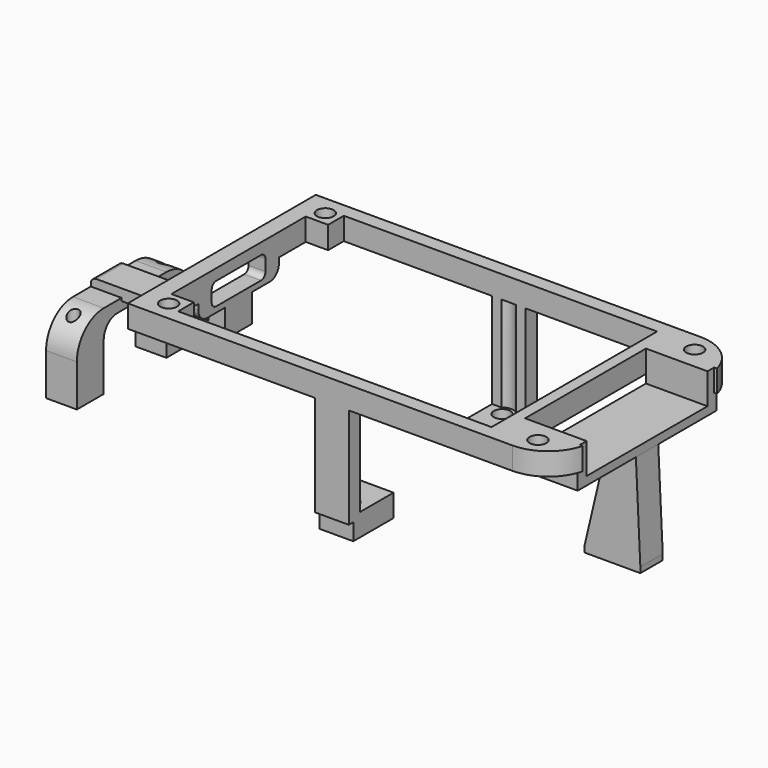
from build123d import *

# Parameters (mm, degrees)
BOX148_W               = 10
BOX148_H               = 12
BOX148_DEPTH           = 4
FILLET092_R            = 1
CYLINDER225_R          = 1
CYLINDER225_DEPTH      = 17
BOX132_W               = 10
BOX132_H               = 5
BOX132_DEPTH           = 18
CHAMFER021_1_SIZE2     = 4
CHAMFER021_1_SIZE      = 17
CHAMFER021_2_SIZE2     = 0.8
CHAMFER021_2_SIZE      = 17
BOX116_W               = 56
BOX116_H               = 37
BOX116_DEPTH           = 6
BOX130_W               = 60
BOX130_H               = 30
BOX130_DEPTH           = 6
CYLINDER224_R          = 1.5
CYLINDER224_DEPTH      = 12
BOX131_W               = 12
BOX131_H               = 30
BOX131_DEPTH           = 6
CYLINDER222_R          = 1.5
CYLINDER222_DEPTH      = 12
CYLINDER221_R          = 1.5
CYLINDER221_DEPTH      = 12
CYLINDER223_R          = 1.5
CYLINDER223_DEPTH      = 12
BOX134_W               = 25
BOX134_H               = 45
BOX134_DEPTH           = 6
BOX097_W               = 100
BOX097_H               = 42
BOX097_DEPTH           = 4
FILLET082_R            = 8
CYLINDER226_R          = 1.5
CYLINDER226_DEPTH      = 21
BOX138_W               = 8
BOX138_H               = 10
BOX138_DEPTH           = 21
BOX137_W               = 8
BOX137_H               = 10
BOX137_DEPTH           = 21
CYLINDER228_R          = 2
CYLINDER228_DEPTH      = 21
BOX110_W               = 56
BOX110_H               = 1
BOX110_DEPTH           = 3
BOX136_W               = 6
BOX136_H               = 10
BOX136_DEPTH           = 21
CYLINDER227_R          = 1.5
CYLINDER227_DEPTH      = 21
BOX141_W               = 8
BOX141_H               = 10
BOX141_DEPTH           = 21
BOX140_W               = 8
BOX140_H               = 10
BOX140_DEPTH           = 21
CYLINDER229_R          = 2
CYLINDER229_DEPTH      = 21
BOX139_W               = 56
BOX139_H               = 1
BOX139_DEPTH           = 3
BOX142_W               = 6
BOX142_H               = 10
BOX142_DEPTH           = 21
CUT100_PLACEMENT_ANGLE = 180
BOX143_W               = 14
BOX143_H               = 27
BOX143_DEPTH           = 8
BOX144_W               = 11
BOX144_H               = 31
BOX144_DEPTH           = 7
CYLINDER233_R          = 1
CYLINDER233_DEPTH      = 19
CYLINDER232_R          = 1
CYLINDER232_DEPTH      = 19
BOX152_W               = 8.5
BOX152_H               = 14
BOX152_DEPTH           = 11.5
FILLET095_R            = 3
BOX151_W               = 5.5
BOX151_H               = 26
BOX151_DEPTH           = 13.5
FILLET093_R            = 6
BOX150_W               = 24
BOX150_H               = 6
BOX150_DEPTH           = 2
BOX147_W               = 3
BOX147_H               = 18
BOX147_DEPTH           = 4
FILLET090_R            = 2
BOX149_W               = 3
BOX149_H               = 6
BOX149_DEPTH           = 6
FILLET094_R            = 1


with BuildPart() as fillet092:
    # Box148 → Box148 (new body)
    with BuildSketch(Plane(origin=(-51, -6, 12), x_dir=(1, 0, 0), z_dir=(0, 0, 1))):
        with Locations((5, 6)):
            Rectangle(BOX148_W, BOX148_H)
    extrude(amount=BOX148_DEPTH)

    # Fillet092
    fillet092_edges = [fillet092.edges().sort_by_distance(p)[0] for p in [
        (-46, -6, 12),
        (-46, -6, 16),
        (-46, 6, 12),
        (-46, 6, 16),
    ]]
    fillet(fillet092_edges, radius=FILLET092_R)


with BuildPart() as zylinder225:
    # Cylinder225 → Cylinder225 (new body)
    with BuildSketch(Plane(origin=(28.75, 0, -10), x_dir=(1, 0, 0), z_dir=(0, 0, 1))):
        Circle(CYLINDER225_R)
    extrude(amount=CYLINDER225_DEPTH)


with BuildPart() as cut098:
    # Box132 → Box132 (new body)
    with BuildSketch(Plane(origin=(21.8, -2.5, -7), x_dir=(1, 0, 0), z_dir=(0, 0, 1))):
        with Locations((5, 2.5)):
            Rectangle(BOX132_W, BOX132_H)
    extrude(amount=BOX132_DEPTH)

    # Chamfer021 1
    chamfer021_1_edges = [cut098.edges().sort_by_distance(p)[0] for p in [
        (21.8, 0, 11),
    ]]
    chamfer021_1_side = cut098.faces().sort_by_distance((21.8, 0, 2))[0]
    chamfer(chamfer021_1_edges, length=CHAMFER021_1_SIZE, length2=CHAMFER021_1_SIZE2, reference=chamfer021_1_side)

    # Chamfer021 2
    chamfer021_2_edges = [cut098.edges().sort_by_distance(p)[0] for p in [
        (31.8, 0, 11),
    ]]
    chamfer021_2_side = cut098.faces().sort_by_distance((31.8, 0, 2))[0]
    chamfer(chamfer021_2_edges, length=CHAMFER021_2_SIZE, length2=CHAMFER021_2_SIZE2, reference=chamfer021_2_side)

    # Cut098: cut Zylinder225
    add(zylinder225.part, mode=Mode.SUBTRACT)


with BuildPart() as obj1:
    # Box116 → Box116 (new body)
    with BuildSketch(Plane(origin=(-38, -18.5, 13), x_dir=(1, 0, 0), z_dir=(0, 0, 1))):
        with Locations((28, 18.5)):
            Rectangle(BOX116_W, BOX116_H)
    extrude(amount=BOX116_DEPTH)


with BuildPart() as obj2:
    # Box130 → Box130 (new body)
    with BuildSketch(Plane(origin=(-42, -15, 13), x_dir=(1, 0, 0), z_dir=(0, 0, 1))):
        with Locations((30, 15)):
            Rectangle(BOX130_W, BOX130_H)
    extrude(amount=BOX130_DEPTH)


with BuildPart() as zylinder224:
    # Cylinder224 → Cylinder224 (new body)
    with BuildSketch(Plane(origin=(25.5, 17.5, 8), x_dir=(1, 0, 0), z_dir=(0, 0, 1))):
        Circle(CYLINDER224_R)
    extrude(amount=CYLINDER224_DEPTH)


with BuildPart() as obj3:
    # Box131 → Box131 (new body)
    with BuildSketch(Plane(origin=(20, -15, 13), x_dir=(1, 0, 0), z_dir=(0, 0, 1))):
        with Locations((6, 15)):
            Rectangle(BOX131_W, BOX131_H)
    extrude(amount=BOX131_DEPTH)


with BuildPart() as zylinder222:
    # Cylinder222 → Cylinder222 (new body)
    with BuildSketch(Plane(origin=(-40.5, -17.5, 8), x_dir=(1, 0, 0), z_dir=(0, 0, 1))):
        Circle(CYLINDER222_R)
    extrude(amount=CYLINDER222_DEPTH)


with BuildPart() as zylinder221:
    # Cylinder221 → Cylinder221 (new body)
    with BuildSketch(Plane(origin=(-40.5, 17.5, 8), x_dir=(1, 0, 0), z_dir=(0, 0, 1))):
        Circle(CYLINDER221_R)
    extrude(amount=CYLINDER221_DEPTH)


with BuildPart() as zylinder223:
    # Cylinder223 → Cylinder223 (new body)
    with BuildSketch(Plane(origin=(25.5, -17.5, 8), x_dir=(1, 0, 0), z_dir=(0, 0, 1))):
        Circle(CYLINDER223_R)
    extrude(amount=CYLINDER223_DEPTH)


with BuildPart() as fusion142:
    # Box134 → Box134 (new body)
    with BuildSketch(Plane(origin=(-70, -22.5, 13), x_dir=(1, 0, 0), z_dir=(0, 0, 1))):
        with Locations((12.5, 22.5)):
            Rectangle(BOX134_W, BOX134_H)
    extrude(amount=BOX134_DEPTH)

    # Fusion142: union obj1, obj2, Zylinder224, obj3, Zylinder222, Zylinder221, Zylinder223
    add(obj1.part)
    add(obj2.part)
    add(zylinder224.part)
    add(obj3.part)
    add(zylinder222.part)
    add(zylinder221.part)
    add(zylinder223.part)


with BuildPart() as cut097:
    # Box097 → Box097 (new body)
    with BuildSketch(Plane(origin=(-68.25, -21, 14), x_dir=(1, 0, 0), z_dir=(0, 0, 1))):
        with Locations((50, 21)):
            Rectangle(BOX097_W, BOX097_H)
    extrude(amount=BOX097_DEPTH)

    # Fillet082
    fillet082_edges = [cut097.edges().sort_by_distance(p)[0] for p in [
        (-68.25, -21, 16),
        (-68.25, 21, 16),
        (31.75, -21, 16),
        (31.75, 21, 16),
    ]]
    fillet(fillet082_edges, radius=FILLET082_R)

    # Cut097: cut Fusion142
    add(fusion142.part, mode=Mode.SUBTRACT)


with BuildPart() as zylinder226:
    # Cylinder226 → Cylinder226 (new body)
    with BuildSketch(Plane(origin=(-8.5, 17, -10), x_dir=(1, 0, 0), z_dir=(0, 0, 1))):
        Circle(CYLINDER226_R)
    extrude(amount=CYLINDER226_DEPTH)


with BuildPart() as obj4:
    # Box138 → Box138 (new body)
    with BuildSketch(Plane(origin=(-12.5, 8.5, -3), x_dir=(1, 0, 0), z_dir=(0, 0, 1))):
        with Locations((4, 5)):
            Rectangle(BOX138_W, BOX138_H)
    extrude(amount=BOX138_DEPTH)


with BuildPart() as obj5:
    # Box137 → Box137 (new body)
    with BuildSketch(Plane(origin=(-12.5, 5.5, -3), x_dir=(1, 0, 0), z_dir=(0, 0, 1))):
        with Locations((4, 5)):
            Rectangle(BOX137_W, BOX137_H)
    extrude(amount=BOX137_DEPTH)


with BuildPart() as zylinder228:
    # Cylinder228 → Cylinder228 (new body)
    with BuildSketch(Plane(origin=(-8.5, 17, -3), x_dir=(1, 0, 0), z_dir=(0, 0, 1))):
        Circle(CYLINDER228_R)
    extrude(amount=CYLINDER228_DEPTH)


with BuildPart() as fusion144:
    # Box110 → Box110 (new body)
    with BuildSketch(Plane(origin=(-43.5, 20, -7), x_dir=(1, 0, 0), z_dir=(0, 0, 1))):
        with Locations((28, 0.5)):
            Rectangle(BOX110_W, BOX110_H)
    extrude(amount=BOX110_DEPTH)

    # Fusion144: union Zylinder226, obj4, obj5, Zylinder228
    add(zylinder226.part)
    add(obj4.part)
    add(obj5.part)
    add(zylinder228.part)


with BuildPart() as cut099:
    # Box136 → Box136 (new body)
    with BuildSketch(Plane(origin=(-11.5, 11, -7), x_dir=(1, 0, 0), z_dir=(0, 0, 1))):
        with Locations((3, 5)):
            Rectangle(BOX136_W, BOX136_H)
    extrude(amount=BOX136_DEPTH)

    # Cut099: cut Fusion144
    add(fusion144.part, mode=Mode.SUBTRACT)


with BuildPart() as zylinder227:
    # Cylinder227 → Cylinder227 (new body)
    with BuildSketch(Plane(origin=(-8.5, 17, -10), x_dir=(1, 0, 0), z_dir=(0, 0, 1))):
        Circle(CYLINDER227_R)
    extrude(amount=CYLINDER227_DEPTH)


with BuildPart() as obj6:
    # Box141 → Box141 (new body)
    with BuildSketch(Plane(origin=(-12.5, 8.5, -3), x_dir=(1, 0, 0), z_dir=(0, 0, 1))):
        with Locations((4, 5)):
            Rectangle(BOX141_W, BOX141_H)
    extrude(amount=BOX141_DEPTH)


with BuildPart() as obj7:
    # Box140 → Box140 (new body)
    with BuildSketch(Plane(origin=(-12.5, 5.5, -3), x_dir=(1, 0, 0), z_dir=(0, 0, 1))):
        with Locations((4, 5)):
            Rectangle(BOX140_W, BOX140_H)
    extrude(amount=BOX140_DEPTH)


with BuildPart() as zylinder229:
    # Cylinder229 → Cylinder229 (new body)
    with BuildSketch(Plane(origin=(-8.5, 17, -3), x_dir=(1, 0, 0), z_dir=(0, 0, 1))):
        Circle(CYLINDER229_R)
    extrude(amount=CYLINDER229_DEPTH)


with BuildPart() as fusion145:
    # Box139 → Box139 (new body)
    with BuildSketch(Plane(origin=(-43.5, 20, -7), x_dir=(1, 0, 0), z_dir=(0, 0, 1))):
        with Locations((28, 0.5)):
            Rectangle(BOX139_W, BOX139_H)
    extrude(amount=BOX139_DEPTH)

    # Fusion145: union Zylinder227, obj6, obj7, Zylinder229
    add(zylinder227.part)
    add(obj6.part)
    add(obj7.part)
    add(zylinder229.part)


with BuildPart() as cut100:
    # Box142 → Box142 (new body)
    with BuildSketch(Plane(origin=(-11.5, 11, -7), x_dir=(1, 0, 0), z_dir=(0, 0, 1))):
        with Locations((3, 5)):
            Rectangle(BOX142_W, BOX142_H)
    extrude(amount=BOX142_DEPTH)

    # Cut100: cut Fusion145
    add(fusion145.part, mode=Mode.SUBTRACT)


with BuildPart() as cut100_1:
    # Cut100 placement: moved
    add(cut100.part.moved(Location((-17, 0, 0))).rotate(Axis((-17, 0, 0), (0, 0, 1)), CUT100_PLACEMENT_ANGLE))


with BuildPart() as obj8:
    # Box143 → Box143 (new body)
    with BuildSketch(Plane(origin=(19, -13.5, 12.5), x_dir=(1, 0, 0), z_dir=(0, 0, 1))):
        with Locations((7, 13.5)):
            Rectangle(BOX143_W, BOX143_H)
    extrude(amount=BOX143_DEPTH)


with BuildPart() as cut101:
    # Box144 → Box144 (new body)
    with BuildSketch(Plane(origin=(20, -15.5, 11), x_dir=(1, 0, 0), z_dir=(0, 0, 1))):
        with Locations((5.5, 15.5)):
            Rectangle(BOX144_W, BOX144_H)
    extrude(amount=BOX144_DEPTH)

    # Cut101: cut obj8
    add(obj8.part, mode=Mode.SUBTRACT)


with BuildPart() as zylinder233:
    # Cylinder233 → Cylinder233 (new body)
    with BuildSketch(Plane(origin=(-63.5, 10, -10), x_dir=(1, 0, 0), z_dir=(0, 0, 1))):
        Circle(CYLINDER233_R)
    extrude(amount=CYLINDER233_DEPTH)


with BuildPart() as zylinder232:
    # Cylinder232 → Cylinder232 (new body)
    with BuildSketch(Plane(origin=(-63.5, -10, -10), x_dir=(1, 0, 0), z_dir=(0, 0, 1))):
        Circle(CYLINDER232_R)
    extrude(amount=CYLINDER232_DEPTH)


with BuildPart() as fusion149:
    # Box152 → Box152 (new body)
    with BuildSketch(Plane(origin=(-67, -10, -7), x_dir=(1, 0, 0), z_dir=(0, 0, 1))):
        with Locations((4.25, 7)):
            Rectangle(BOX152_W, BOX152_H)
    extrude(amount=BOX152_DEPTH)

    # Fillet095
    fillet095_edges = [fusion149.edges().sort_by_distance(p)[0] for p in [
        (-62.75, -10, 4.5),
        (-62.75, 4, 4.5),
    ]]
    fillet(fillet095_edges, radius=FILLET095_R)


with BuildPart() as fusion149_1:
    # Fillet095 placement: moved
    add(fusion149.part.moved(Location((0, 3, 0))))

    # Fusion149: union Zylinder233, Zylinder232
    add(zylinder233.part)
    add(zylinder232.part)


with BuildPart() as cut104:
    # Box151 → Box151 (new body)
    with BuildSketch(Plane(origin=(-66, -13, -7), x_dir=(1, 0, 0), z_dir=(0, 0, 1))):
        with Locations((2.75, 13)):
            Rectangle(BOX151_W, BOX151_H)
    extrude(amount=BOX151_DEPTH)

    # Fillet093
    fillet093_edges = [cut104.edges().sort_by_distance(p)[0] for p in [
        (-63.25, -13, 6.5),
        (-63.25, 13, 6.5),
    ]]
    fillet(fillet093_edges, radius=FILLET093_R)

    # Cut104: cut Fusion149
    add(fusion149_1.part, mode=Mode.SUBTRACT)


with BuildPart() as obj9:
    # Box150 → Box150 (new body)
    with BuildSketch(Plane(origin=(-66, -3, 6), x_dir=(1, 0, 0), z_dir=(0, 0, 1))):
        with Locations((12, 3)):
            Rectangle(BOX150_W, BOX150_H)
    extrude(amount=BOX150_DEPTH)


with BuildPart() as fillet090:
    # Box147 → Box147 (new body)
    with BuildSketch(Plane(origin=(-45, -9, 11), x_dir=(1, 0, 0), z_dir=(0, 0, 1))):
        with Locations((1.5, 9)):
            Rectangle(BOX147_W, BOX147_H)
    extrude(amount=BOX147_DEPTH)

    # Fillet090
    fillet090_edges = [fillet090.edges().sort_by_distance(p)[0] for p in [
        (-43.5, -9, 11),
        (-43.5, 9, 11),
    ]]
    fillet(fillet090_edges, radius=FILLET090_R)


with BuildPart() as cut108:
    # Box149 → Box149 (new body)
    with BuildSketch(Plane(origin=(-45, -3, 6), x_dir=(1, 0, 0), z_dir=(0, 0, 1))):
        with Locations((1.5, 3)):
            Rectangle(BOX149_W, BOX149_H)
    extrude(amount=BOX149_DEPTH)

    # Fusion148: union obj9, Fillet090
    add(obj9.part)
    add(fillet090.part)

    # Fillet094
    fillet094_edges = [cut108.edges().sort_by_distance(p)[0] for p in [
        (-66, 0, 8),
    ]]
    fillet(fillet094_edges, radius=FILLET094_R)

    # Fusion150: union Cut104
    add(cut104.part)

    # Fusion157: union Cut098, Cut097, Cut099, Cut100, Cut101
    add(cut098.part)
    add(cut097.part)
    add(cut099.part)
    add(cut100_1.part)
    add(cut101.part)

    # Cut108: cut Fillet092
    add(fillet092.part, mode=Mode.SUBTRACT)


solid = cut108.part
